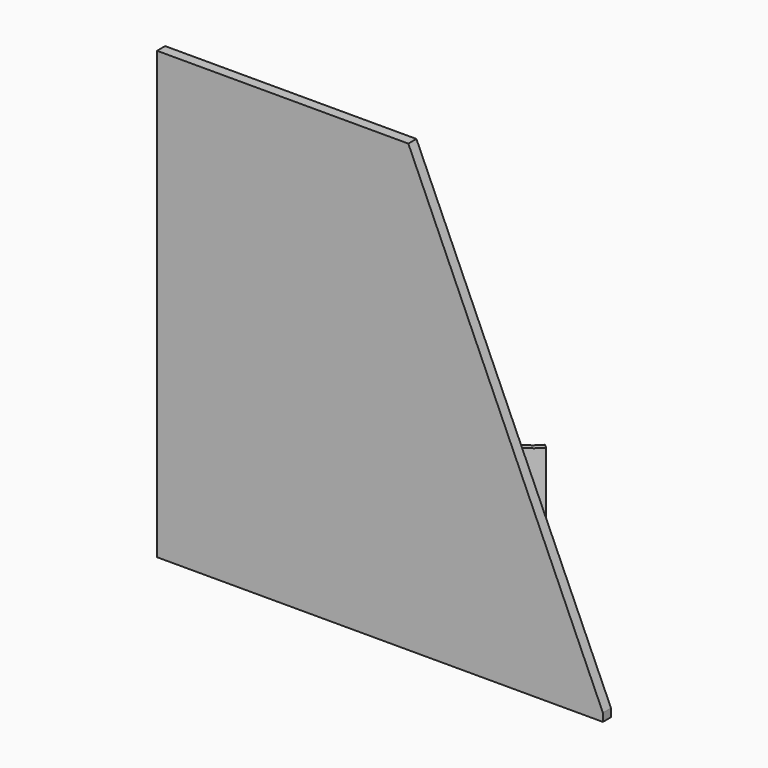
from build123d import *

# Parameters (mm, degrees)
F1_DEPTH = 3.175
F3_DEPTH = 25.4
F5_DEPTH = 2.54


with BuildPart() as f1:
    # F0 (on Front) → F1 (new body)
    with BuildSketch(Plane.XZ):
        Polygon((-48.172619, 80.400523), (-48.172619, -59.299477), (91.527381, -59.299477), (91.527381, -56.759477), (30.567381, 80.400523), align=None)
    extrude(amount=F1_DEPTH)


with BuildPart() as f3:
    # F2 (on face) → F3 (new body)
    with BuildSketch(Plane(origin=(0, 0, -59.299477), x_dir=(1, 0, 0), z_dir=(0, 0, -1))):
        with BuildLine():
            ThreePointArc((-9.353087, -60.655518), (5.647591, -57.356168), (19.205846, -64.5728))
            Line((19.205846, -64.5728), (20.390022, -63.515499))
            ThreePointArc((20.390022, -63.515499), (5.86332, -55.783394), (-10.208835, -59.318412))
            Line((-10.208835, -59.318412), (-9.353087, -60.655518))
        make_face()
    extrude(amount=-F3_DEPTH)


with BuildPart() as f5:
    # F4 (on face) → F5 (new body)
    with BuildSketch(Plane(origin=(0, 0, -59.299477), x_dir=(1, 0, 0), z_dir=(0, 0, -1))):
        with BuildLine():
            ThreePointArc((-48.172619, 0), (-19.063419, -23.177729), (-10.208835, -59.318412))
            ThreePointArc((-10.208835, -59.318412), (5.86332, -55.783394), (20.390022, -63.515499))
            ThreePointArc((20.390022, -63.515499), (48.348567, -23.234399), (91.527381, 0))
            Line((91.527381, 0), (-48.172619, 0))
        make_face()
    extrude(amount=-F5_DEPTH)


solid = Compound([f1.part, f3.part, f5.part])
